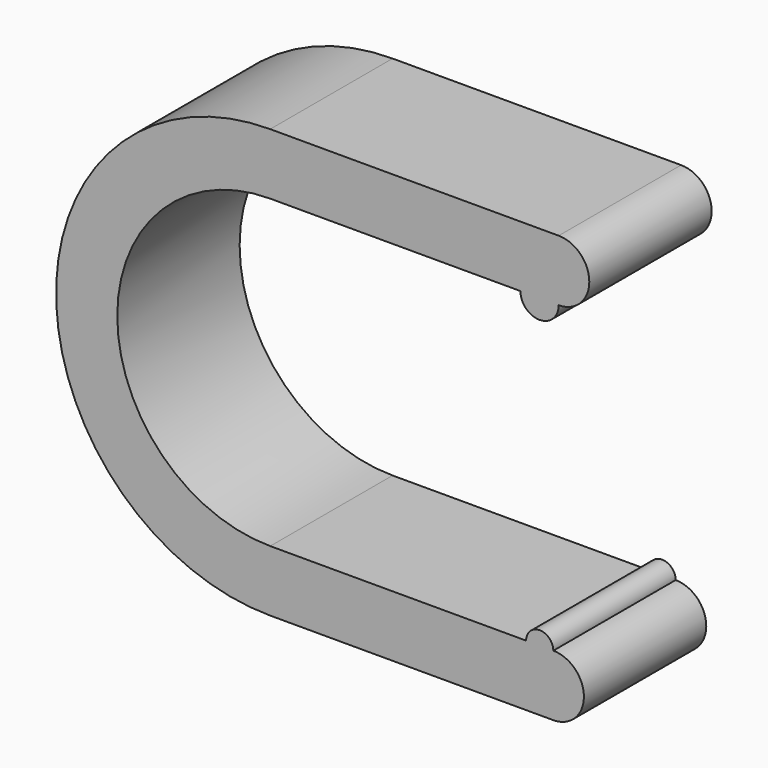
from build123d import *

# Parameters (mm, degrees)
F1_DEPTH = 10


with BuildPart() as f1:
    # F0 (on Front) → F1 (new body)
    with BuildSketch(Plane.XZ):
        with BuildLine():
            ThreePointArc((0, -10), (-10, 0), (0, 10))
            Line((0, 10), (16.356886, 10))
            Line((16.356886, 10), (18.862135, 10))
            Line((18.862135, 10), (18.862135, 14))
            Line((18.862135, 14), (0, 14))
            ThreePointArc((0, 14), (-14, 0), (0, -14))
            Line((0, -14), (18.509572, -14))
            Line((18.509572, -14), (18.509572, -10))
            Line((18.509572, -10), (16.730837, -10))
            Line((16.730837, -10), (0, -10))
        make_face()
        with BuildLine():
            Line((18.862135, 14), (18.862135, 10))
            ThreePointArc((18.862135, 10), (20.862135, 12), (18.862135, 14))
        make_face()
        with BuildLine():
            Line((18.862135, 10), (16.356886, 10))
            ThreePointArc((16.356886, 10), (17.60951, 8.747376), (18.862135, 10))
        make_face()
        with BuildLine():
            ThreePointArc((18.509572, -14), (20.509572, -12), (18.509572, -10))
            Line((18.509572, -10), (18.509572, -14))
        make_face()
        with BuildLine():
            ThreePointArc((18.509572, -10), (17.620205, -9.110632), (16.730837, -10))
            Line((16.730837, -10), (18.509572, -10))
        make_face()
    extrude(amount=F1_DEPTH)


solid = f1.part
